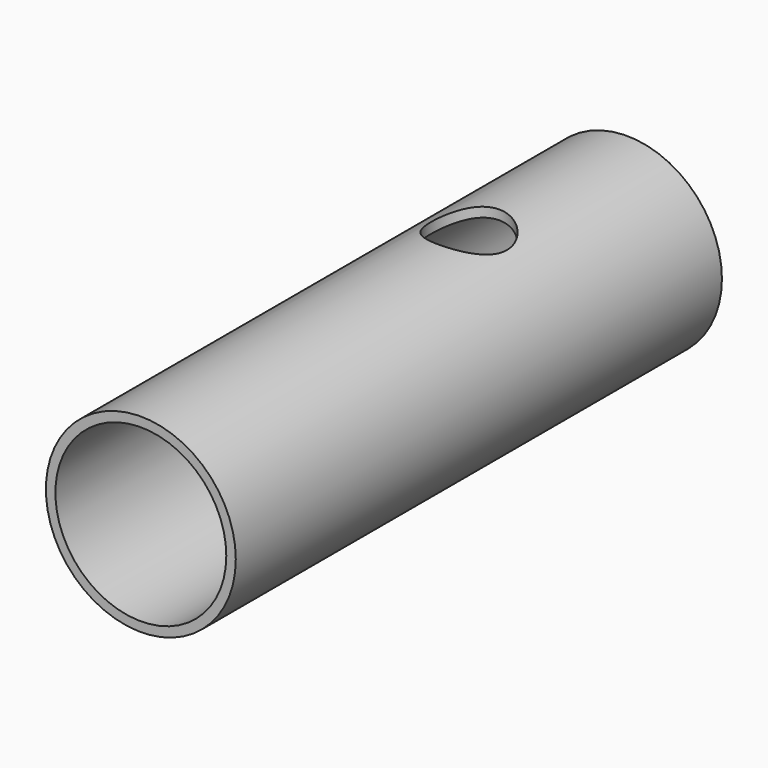
from build123d import *

# Parameters (mm, degrees)
F0_R     = 15.875
F0_R_2   = 14.2875
F1_DEPTH = 101.6
F3_R     = 6.35
F4_DEPTH = 25.4
F6_R     = 6.35
F7_DEPTH = 25.4


with BuildPart() as f1:
    # F0 (on Front) → F1 (new body)
    with BuildSketch(Plane.XZ):
        Circle(F0_R)
        Circle(F0_R_2, mode=Mode.SUBTRACT)
    extrude(amount=F1_DEPTH)

    # F3 (on offset) → F4 (cut)
    with BuildSketch(Plane.XY.offset(28.575)):
        with Locations((0, -33.02)):
            Circle(F3_R)
    extrude(amount=-F4_DEPTH, mode=Mode.SUBTRACT)

    # F6 (on offset) → F7 (cut)
    with BuildSketch(Plane.XY.offset(-28.575)):
        with Locations((0, -9.525)):
            Circle(F6_R)
    extrude(amount=F7_DEPTH, mode=Mode.SUBTRACT)


solid = f1.part
